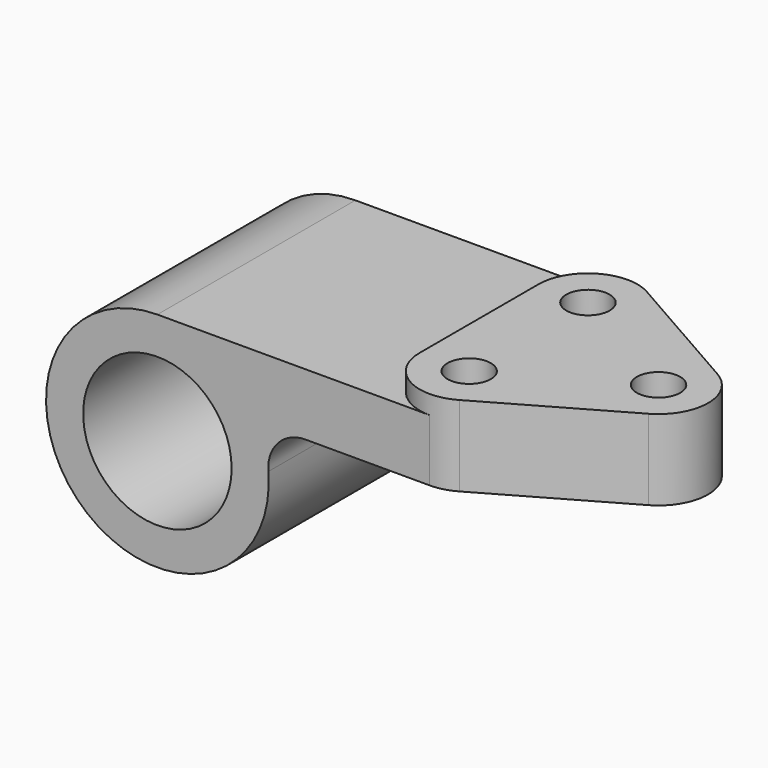
from build123d import *

# Parameters (mm, degrees)
F0_R          = 19.05
F1_DEPTH      = 63.5
F2_R          = 5.5626
F3_DEPTH      = 4.7752
F3_DEPTH_BACK = 15.875
F5_DEPTH      = 57.151


with BuildPart() as f1:
    # F0 (on Front) → F1 (new body)
    with BuildSketch(Plane.XZ):
        with BuildLine():
            Line((69.85, 28.575), (0, 28.575))
            ThreePointArc((0, 28.575), (-19.345366, -21.030631), (28.475608, 2.38125))
            ThreePointArc((28.475608, 2.38125), (30.957268, 9.623455), (37.967478, 12.7))
            Line((37.967478, 12.7), (69.85, 12.7))
            Line((69.85, 12.7), (69.85, 28.575))
        make_face()
        Circle(F0_R, mode=Mode.SUBTRACT)
    extrude(amount=F1_DEPTH)

    # F2 (on face) → F3 (join, two sides)
    with BuildSketch(Plane.XY.offset(28.575)) as f3_sk:
        with BuildLine():
            ThreePointArc((76.149155, -1.672279), (63.474628, -1.716165), (57.15, -12.7))
            Line((57.15, -12.7), (57.15, -50.8))
            ThreePointArc((57.15, -50.8), (63.474628, -61.783835), (76.149155, -61.827721))
            Line((76.149155, -61.827721), (109.499355, -42.777721))
            ThreePointArc((109.499355, -42.777721), (115.9002, -31.75), (109.499355, -20.722279))
            Line((109.499355, -20.722279), (76.149155, -1.672279))
        make_face()
        with Locations((69.85, -50.8)):
            Circle(F2_R, mode=Mode.SUBTRACT)
        with Locations((69.85, -12.7)):
            Circle(F2_R, mode=Mode.SUBTRACT)
        with Locations((103.2002, -31.75)):
            Circle(F2_R, mode=Mode.SUBTRACT)
    extrude(amount=F3_DEPTH)
    extrude(f3_sk.sketch, amount=-F3_DEPTH_BACK)

    # F4 (on face) → F5 (cut, through all)
    with BuildSketch(Plane.XY.offset(28.575)):
        with BuildLine():
            Line((69.85, -18.2626), (69.85, -7.1374))
            ThreePointArc((69.85, -7.1374), (64.2874, -12.7), (69.85, -18.2626))
        make_face()
        with BuildLine():
            Line((69.85, -56.3626), (69.85, -45.2374))
            ThreePointArc((69.85, -45.2374), (64.2874, -50.8), (69.85, -56.3626))
        make_face()
    extrude(amount=-F5_DEPTH, mode=Mode.SUBTRACT)


solid = f1.part
